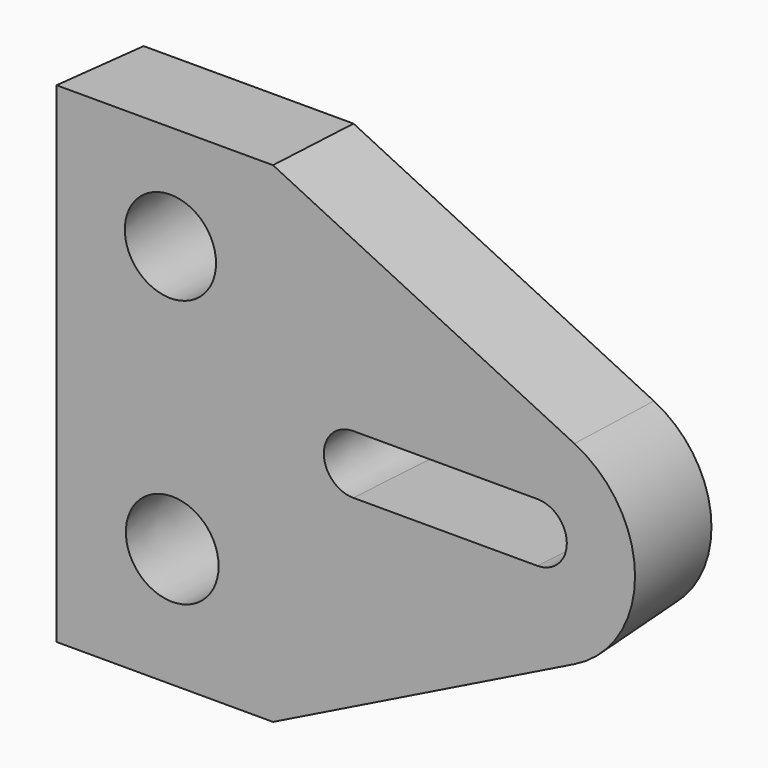
from build123d import *

# Parameters (mm, degrees)
F0_R     = 12.8565958729
F0_R_2   = 12.6665792874
F1_DEPTH = 25.4
F1_TAPER = -3


with BuildPart() as f1:
    # F0 (on Front) → F1 (new body)
    with BuildSketch(Plane.XZ):
        with BuildLine():
            Line((-20.2554296702, 57.0883825421), (-72.3997727036, 57.0883825421))
            Line((-72.3997727036, 57.0883825421), (-72.3997727036, -62.034457922))
            Line((-72.3997727036, -62.034457922), (-20.2554296702, -62.034457922))
            Line((-20.2554296702, -62.034457922), (54.3649159372, -25.173805654))
            ThreePointArc((54.3649159372, -25.173805654), (68.6875534055, -2.2482778877), (54.3649159372, 20.6772498786))
            Line((54.3649159372, 20.6772498786), (-20.2554296702, 57.0883825421))
        make_face()
        with Locations((-44.9790395796, -33.7146855891)):
            Circle(F0_R, mode=Mode.SUBTRACT)
        with Locations((-45.4285591841, 32.3647707701)):
            Circle(F0_R_2, mode=Mode.SUBTRACT)
        with BuildLine():
            ThreePointArc((0, -9.1871628538), (-8.6369882338, -0.55017462), (0, 8.0868136138))
            Line((0, 8.0868136138), (45.7578264177, 8.0868136138))
            ThreePointArc((45.7578264177, 8.0868136138), (54.3948146515, -0.55017462), (45.7578264177, -9.1871628538))
            Line((45.7578264177, -9.1871628538), (0, -9.1871628538))
        make_face(mode=Mode.SUBTRACT)
    extrude(amount=F1_DEPTH, taper=F1_TAPER)


solid = f1.part
